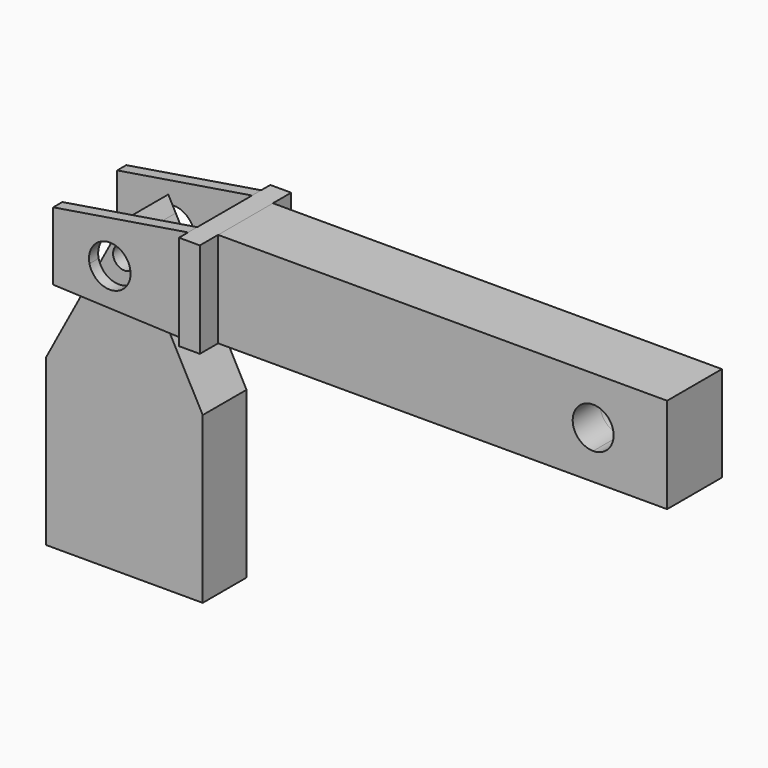
from build123d import *

# Parameters (mm, degrees)
F0_W     = 4.574092105
F0_H     = 20.906448481
F1_DEPTH = 12.5
F2_START = 7.5
F2_DEPTH = 2.5
F4_DEPTH = 7.5
F0_W_2   = 34.2943556607
F0_H_2   = 36.1995995045
F0_R     = 2.4800674326
F5_DEPTH = 6


with BuildPart() as f1:
    # F0 (on Front) → F1 (new body, symmetric)
    with BuildSketch(Plane.XZ):
        with Locations((2.2870460525, 62.5810548079)):
            Rectangle(F0_W, F0_H)
    extrude(amount=F1_DEPTH, both=True)

    # F0 (on Front) → F2 (join)
    with BuildSketch(Plane.XZ.offset(F2_START)):
        with BuildLine():
            Line((-25.2216641664, 53.168891048), (-8.7082639789, 52.4872766937))
            Line((-8.7082639789, 52.4872766937), (-12.7107553091, 59.9734170883))
            ThreePointArc((-12.7107553091, 59.9734170883), (-17.1471778303, 56.4212579855), (-21.5836003516, 59.9734170883))
            Line((-21.5836003516, 59.9734170883), (-25.2216641664, 53.168891048))
        make_face()
        with BuildLine():
            Line((-12.7107553091, 59.9734170883), (-8.7082639789, 52.4872766937))
            Line((-8.7082639789, 52.4872766937), (0, 52.1278305674))
            Line((0, 52.1278305674), (0, 73.0342790484))
            Line((0, 73.0342790484), (-29.5312516391, 68.271169439))
            Line((-29.5312516391, 68.271169439), (-29.5312516391, 53.3467754722))
            Line((-29.5312516391, 53.3467754722), (-25.2216641664, 53.168891048))
            Line((-25.2216641664, 53.168891048), (-21.5836003516, 59.9734170883))
            ThreePointArc((-21.5836003516, 59.9734170883), (-21.1565826315, 63.1113857959), (-18.7842306449, 65.2092746859))
            Line((-18.7842306449, 65.2092746859), (-17.1471778303, 68.271169439))
            Line((-17.1471778303, 68.271169439), (-15.5101250158, 65.2092746859))
            ThreePointArc((-15.5101250158, 65.2092746859), (-13.3979534883, 63.5394833579), (-12.6006924191, 60.9677433968))
            ThreePointArc((-12.6006924191, 60.9677433968), (-12.6282919131, 60.4675437748), (-12.7107553091, 59.9734170883))
        make_face()
        with BuildLine():
            ThreePointArc((-18.7842306449, 65.2092746859), (-17.1471778303, 65.514228808), (-15.5101250158, 65.2092746859))
            Line((-15.5101250158, 65.2092746859), (-17.1471778303, 68.271169439))
            Line((-17.1471778303, 68.271169439), (-18.7842306449, 65.2092746859))
        make_face()
    extrude(amount=F2_DEPTH)


with BuildPart() as f3_1:
    # F3: instance of F1
    add(f1.part.mirror(Plane.XZ))


with BuildPart() as f4:
    # F0 (on Front) → F4 (new body, symmetric)
    with BuildSketch(Plane.XZ):
        Polygon((4.574092105, 73.0342790484), (4.574092105, 52.1278305674), (86.6885110736, 52.1278305674), (86.6885110736, 56.0208766968), (80.2129593988, 57.2697704448), (80.2129593988, 66.8070286696), (86.6885110736, 68.3046103878), (86.6885110736, 73.0342790484), align=None)
        Polygon((102.8830707073, 73.0342790484), (86.6885110736, 73.0342790484), (86.6885110736, 68.3046103878), (102.8830707073, 72.0498783834), align=None)
        with BuildLine():
            Line((86.6885110736, 58.0758508295), (86.6885110736, 56.0208766968))
            Line((86.6885110736, 56.0208766968), (102.8830707073, 52.8975467795))
            Line((102.8830707073, 52.8975467795), (102.8830707073, 72.0498783834))
            Line((102.8830707073, 72.0498783834), (86.6885110736, 68.3046103878))
            Line((86.6885110736, 68.3046103878), (86.6885110736, 67.0350436121))
            ThreePointArc((86.6885110736, 67.0350436121), (89.8560640589, 65.7230002061), (91.1681074649, 62.5554472208))
            ThreePointArc((91.1681074649, 62.5554472208), (89.8560640589, 59.3878942355), (86.6885110736, 58.0758508295))
        make_face()
        Polygon((86.6885110736, 56.0208766968), (86.6885110736, 52.1278305674), (102.8830707073, 52.1278305674), (102.8830707073, 52.8975467795), align=None)
        with BuildLine():
            Line((86.6885110736, 58.0758508295), (86.6885110736, 56.0208766968))
            Line((86.6885110736, 56.0208766968), (102.8830707073, 52.8975467795))
            Line((102.8830707073, 52.8975467795), (102.8830707073, 72.0498783834))
            Line((102.8830707073, 72.0498783834), (86.6885110736, 68.3046103878))
            Line((86.6885110736, 68.3046103878), (86.6885110736, 67.0350436121))
            ThreePointArc((86.6885110736, 67.0350436121), (89.8560640589, 65.7230002061), (91.1681074649, 62.5554472208))
            ThreePointArc((91.1681074649, 62.5554472208), (89.8560640589, 59.3878942355), (86.6885110736, 58.0758508295))
        make_face()
        with BuildLine():
            Line((80.2129593988, 57.2697704448), (86.6885110736, 56.0208766968))
            Line((86.6885110736, 56.0208766968), (86.6885110736, 58.0758508295))
            ThreePointArc((86.6885110736, 58.0758508295), (82.2089146823, 62.5554472208), (86.6885110736, 67.0350436121))
            Line((86.6885110736, 67.0350436121), (86.6885110736, 68.3046103878))
            Line((86.6885110736, 68.3046103878), (80.2129593988, 66.8070286696))
            Line((80.2129593988, 66.8070286696), (80.2129593988, 57.2697704448))
        make_face()
    extrude(amount=F4_DEPTH, both=True)


with BuildPart() as f5:
    # F0 (on Front) → F5 (new body, symmetric)
    with BuildSketch(Plane.XZ):
        with Locations((-17.1471778303, 18.0997997522)):
            Rectangle(F0_W_2, F0_H_2)
        Polygon((-34.2943556607, 36.1995995045), (0, 36.1995995045), (-8.7082639789, 52.4872766937), (-25.2216641664, 53.168891048), align=None)
        with BuildLine():
            Line((-25.2216641664, 53.168891048), (-8.7082639789, 52.4872766937))
            Line((-8.7082639789, 52.4872766937), (-12.7107553091, 59.9734170883))
            ThreePointArc((-12.7107553091, 59.9734170883), (-17.1471778303, 56.4212579855), (-21.5836003516, 59.9734170883))
            Line((-21.5836003516, 59.9734170883), (-25.2216641664, 53.168891048))
        make_face()
        with BuildLine():
            ThreePointArc((-21.5836003516, 59.9734170883), (-17.1471778303, 56.4212579855), (-12.7107553091, 59.9734170883))
            Line((-12.7107553091, 59.9734170883), (-15.5101250158, 65.2092746859))
            ThreePointArc((-15.5101250158, 65.2092746859), (-17.1471778303, 65.514228808), (-18.7842306449, 65.2092746859))
            Line((-18.7842306449, 65.2092746859), (-21.5836003516, 59.9734170883))
        make_face()
        with Locations((-17.1471778303, 60.9677433968)):
            Circle(F0_R, mode=Mode.SUBTRACT)
        with BuildLine():
            ThreePointArc((-18.7842306449, 65.2092746859), (-17.1471778303, 65.514228808), (-15.5101250158, 65.2092746859))
            Line((-15.5101250158, 65.2092746859), (-17.1471778303, 68.271169439))
            Line((-17.1471778303, 68.271169439), (-18.7842306449, 65.2092746859))
        make_face()
    extrude(amount=F5_DEPTH, both=True)


solid = Compound([f1.part, f3_1.part, f4.part, f5.part])
